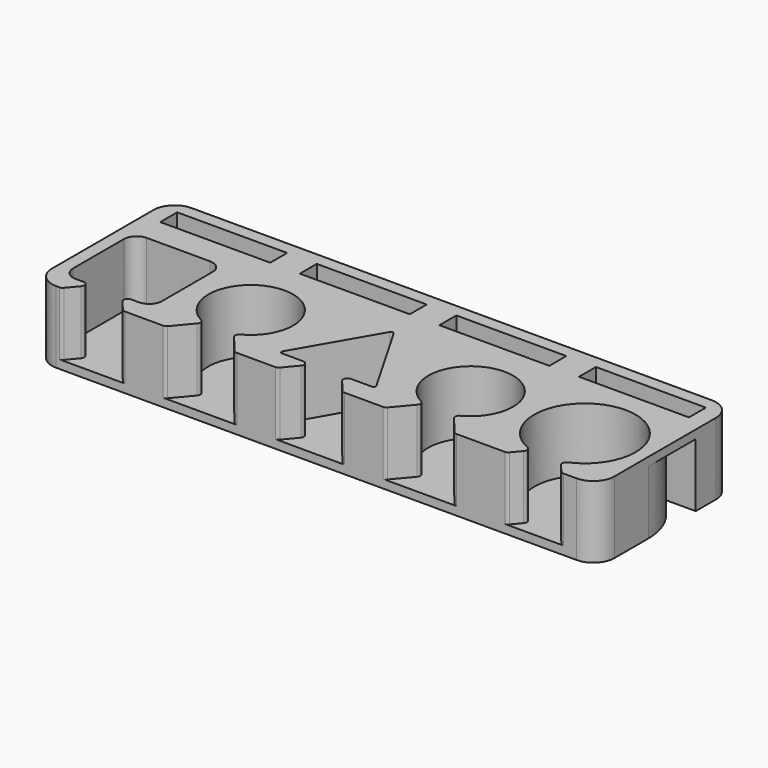
from build123d import *

# Parameters (mm, degrees)
F0_W      = 133
F0_H      = 40
F1_DEPTH  = 17
F2_W      = 26
F2_H      = 5
F3_DEPTH  = 15
F4_R      = 1
F5_R      = 0.5
F6_R      = 5
F7_R      = 3
F10_DEPTH = 15


with BuildPart() as f1:
    # F0 (on Top) → F1 (new body)
    with BuildSketch(Plane.XY):
        Rectangle(F0_W, F0_H)
    extrude(amount=F1_DEPTH)

    # F2 (on face) → F3 (cut)
    with BuildSketch(Plane.XY.offset(17)):
        with Locations((-16.5, 14.5)):
            Rectangle(F2_W, F2_H)
        with Locations((16.5, 14.5)):
            Rectangle(F2_W, F2_H)
        with Locations((49.5, 14.5)):
            Rectangle(F2_W, F2_H)
        Polygon((-49.5, -15.5), (-42.5, -15.5), (-42.5, 5.5), (-63.5, 5.5), (-63.5, -15.5), (-56.5, -15.5), align=None)
        with BuildLine():
            ThreePointArc((-17.5, -5), (-33.2008771255, 3.2158383626), (-31, -14.3674969976))
            ThreePointArc((-31, -14.3674969976), (-27.5, -15), (-24, -14.3674969976))
            ThreePointArc((-24, -14.3674969976), (-19.2841616374, -10.7008771255), (-17.5, -5))
        make_face()
        with BuildLine():
            ThreePointArc((34.5, -5), (18.7991228745, 3.2158383626), (21, -14.3674969976))
            ThreePointArc((21, -14.3674969976), (24.5, -15), (28, -14.3674969976))
            ThreePointArc((28, -14.3674969976), (32.7158383626, -10.7008771255), (34.5, -5))
        make_face()
        with BuildLine():
            ThreePointArc((48, -16.4782402832), (51.5, -17), (55, -16.4782402832))
            ThreePointArc((55, -16.4782402832), (61.143650761, -12.1414284285), (63.5, -5))
            ThreePointArc((63.5, -5), (44.3585715715, 4.643650761), (48, -16.4782402832))
        make_face()
        Polygon((-13, -14.9595), (-5, -14.9595), (-1.5, -14.9595), (-1.5, 4.95908), align=None)
        Polygon((-1.5, 4.95908), (-1.5, -14.9595), (2, -14.9595), (10, -14.9595), align=None)
        with Locations((-49.5, 14.5)):
            Rectangle(F2_W, F2_H)
        Polygon((-45.7240516597, -20), (-49.5, -15.5), (-56.5, -15.5), (-60.2759483403, -20), align=None)
        with BuildLine():
            Line((-31, -14.3674969976), (-35.7262311919, -20))
            Line((-35.7262311919, -20), (-19.2737688081, -20))
            Line((-19.2737688081, -20), (-24, -14.3674969976))
            ThreePointArc((-24, -14.3674969976), (-27.5, -15), (-31, -14.3674969976))
        make_face()
        Polygon((-5, -14.9595), (-9.2294816909, -20), (6.2294816909, -20), (2, -14.9595), (-1.5, -14.9595), align=None)
        with BuildLine():
            Line((21, -14.3674969976), (16.2737688081, -20))
            Line((16.2737688081, -20), (32.7262311919, -20))
            Line((32.7262311919, -20), (28, -14.3674969976))
            ThreePointArc((28, -14.3674969976), (24.5, -15), (21, -14.3674969976))
        make_face()
        with BuildLine():
            Line((45.0448927206, -20), (57.9551072794, -20))
            Line((57.9551072794, -20), (55, -16.4782402832))
            ThreePointArc((55, -16.4782402832), (51.5, -17), (48, -16.4782402832))
            Line((48, -16.4782402832), (45.0448927206, -20))
        make_face()
    extrude(amount=-F3_DEPTH, mode=Mode.SUBTRACT)

    # F4
    f4_edges = [f1.edges().sort_by_distance(p)[0] for p in [
        (21, -14.367497, 9.5),
        (28, -14.367497, 9.5),
        (55, -16.47824, 9.5),
        (57.955107, -20, 9.5),
        (45.044893, -20, 9.5),
        (48, -16.47824, 9.5),
        (32.726231, -20, 9.5),
        (16.273769, -20, 9.5),
        (6.229482, -20, 9.5),
        (2, -14.9595, 9.5),
        (-5, -14.9595, 9.5),
        (-9.229482, -20, 9.5),
        (-24, -14.367497, 9.5),
        (-19.273769, -20, 9.5),
        (-31, -14.367497, 9.5),
        (-35.726231, -20, 9.5),
        (-56.5, -15.5, 9.5),
        (-60.275948, -20, 9.5),
        (-49.5, -15.5, 9.5),
        (-45.724052, -20, 9.5),
    ]]
    fillet(f4_edges, radius=F4_R)

    # F5
    f5_edges = [f1.edges().sort_by_distance(p)[0] for p in [
        (-1.5, 4.95908, 9.5),
        (-13, -14.9595, 9.5),
        (10, -14.9595, 9.5),
    ]]
    fillet(f5_edges, radius=F5_R)

    # F6
    f6_edges = [f1.edges().sort_by_distance(p)[0] for p in [
        (-66.5, -20, 8.5),
        (-66.5, 20, 8.5),
        (66.5, -20, 8.5),
        (66.5, 20, 8.5),
    ]]
    fillet(f6_edges, radius=F6_R)

    # F7
    f7_edges = [f1.edges().sort_by_distance(p)[0] for p in [
        (-42.5, 5.5, 9.5),
        (-63.5, 5.5, 9.5),
        (-63.5, -15.5, 9.5),
        (-42.5, -15.5, 9.5),
    ]]
    fillet(f7_edges, radius=F7_R)

    # F9 (on face) → F10 (cut)
    with BuildSketch(Plane(origin=(0, 0, 0), x_dir=(1, 0, 0), z_dir=(0, 0, -1))):
        with BuildLine():
            Line((-39.5, -9), (-2.6310750496, -9))
            Line((-2.6310750496, -9), (-16.2277130067, 14.5500626852))
            Line((-16.2277130067, 14.5500626852), (-14.6648491969, 17))
            Line((-14.6648491969, 17), (-17.8748458336, 17))
            Line((-17.8748458336, 17), (-19.4071963049, 15.1738158207))
            ThreePointArc((-19.4071963049, 15.1738158207), (-15.7908914081, 10.6477230794), (-14.5, 5))
            ThreePointArc((-14.5, 5), (-24.9504902432, -7.747548784), (-39.5, 0))
            Line((-39.5, 0), (-39.5, -9))
        make_face()
        with BuildLine():
            Line((13.1582028158, 14.4296675288), (-0.3689249504, -9))
            Line((-0.3689249504, -9), (46.1148351929, -9))
            ThreePointArc((46.1148351929, -9), (40.2858667229, -4.9620888795), (36.962962963, 1.3020878615))
            ThreePointArc((36.962962963, 1.3020878615), (17.2280826359, -5.7758627427), (16.4071963049, 15.1738158207))
            Line((16.4071963049, 15.1738158207), (14.8748458336, 17))
            Line((14.8748458336, 17), (11.7246036518, 17))
            Line((11.7246036518, 17), (13.1582028158, 14.4296675288))
        make_face()
        with BuildLine():
            ThreePointArc((66.5, 5), (63.8648184804, -3.4918351342), (56.8851648071, -9))
            Line((56.8851648071, -9), (66.5, -9))
            Line((66.5, -9), (66.5, 5))
        make_face()
    extrude(amount=-F10_DEPTH, mode=Mode.SUBTRACT)


solid = f1.part
